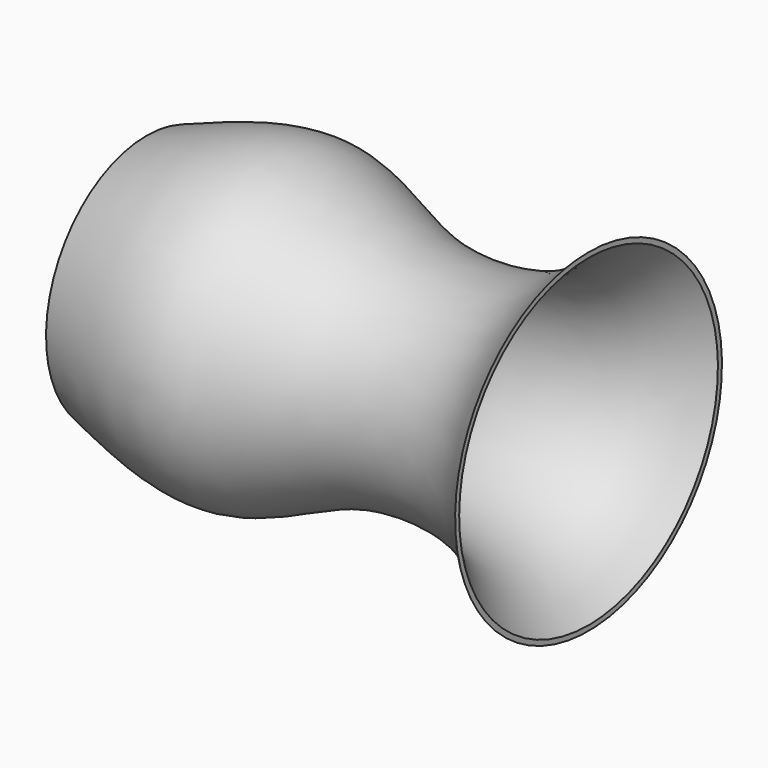
from build123d import *

# Parameters (mm, degrees)
F2_T = -1


with BuildPart() as f1:
    # F0 (on Front) → F1 (revolve)
    with BuildSketch(Plane.XZ):
        with BuildLine():
            add(Edge.make_bspline(
                [(-61.7536008358, 43.9073741436), (-48.7092670542, 48.614706491), (-23.3186505255, 57.7774642451), (6.6174371029, 36.2440207395), (47.1384476335, 39.5244520588), (58.1544579039, 50.7145612968), (62.8866925836, 55.5215850472)],
                knots=[0, 0, 0, 0, 0.2720553549, 0.5295520113, 0.7979059358, 1, 1, 1, 1], degree=3))
            Line((-61.7536008358, 43.9073741436), (-61.7536008358, 8.4982011467))
            Line((-61.7536008358, 8.4982011467), (62.8866925836, 8.4982011467))
            Line((62.8866925836, 8.4982011467), (62.8866925836, 55.5215850472))
        make_face()
    revolve(axis=Axis((0.5665458739, 0, 8.4982011467), (-1, 0, 0)))

    # F2
    f2_openings = [f1.faces().sort_by_distance(p)[0] for p in [
        (62.886693, 0, 8.498201),
    ]]
    offset(amount=F2_T, openings=f2_openings)


solid = f1.part
